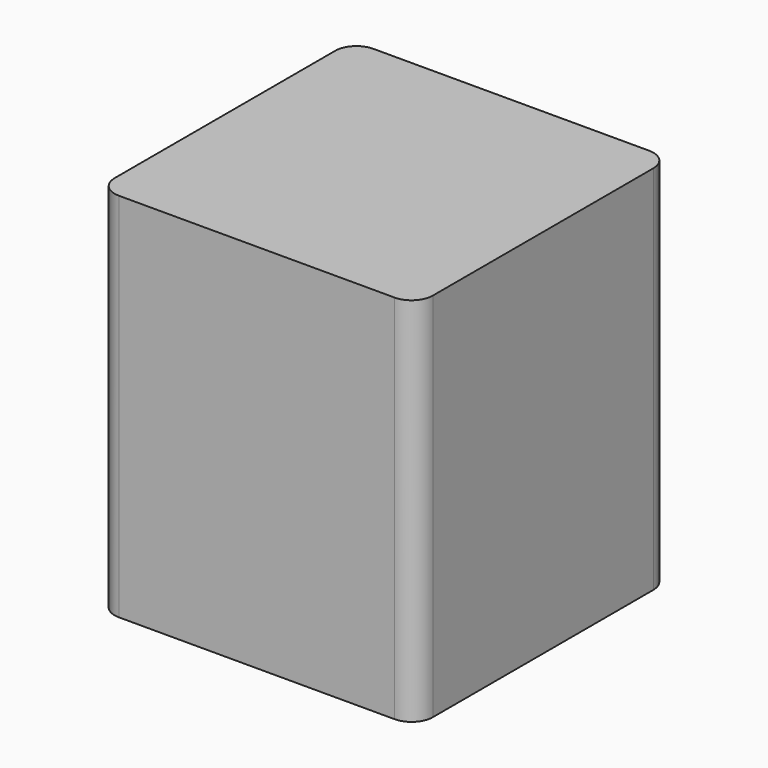
from build123d import *

# Parameters (mm, degrees)
PAD016_DEPTH    = 140
THICKNESS003_T  = -1.5
POCKET018_DEPTH = 5


with BuildPart() as part:
    # Sketch035 → Pad016 (new body)
    with BuildSketch(Plane.XY):
        with BuildLine():
            Line((-60, 52), (-60, -52))
            ThreePointArc((-60, -52), (-57.6568542495, -57.6568542495), (-52, -60))
            Line((-52, -60), (52, -60))
            ThreePointArc((52, -60), (57.6568542495, -57.6568542495), (60, -52))
            Line((60, -52), (60, 52))
            ThreePointArc((60, 52), (57.6568542495, 57.6568542495), (52, 60))
            Line((52, 60), (-52, 60))
            ThreePointArc((-52, 60), (-57.6568542495, 57.6568542495), (-60, 52))
        make_face()
    extrude(amount=PAD016_DEPTH)

    # Thickness003
    thickness003_openings = [part.faces().sort_by_distance(p)[0] for p in [
        (0, 0, 0),
    ]]
    offset(amount=THICKNESS003_T, openings=thickness003_openings)

    # Sketch046 (on Face10 of Thickness003) → Pocket018 (cut)
    with BuildSketch(Plane(origin=(0, 0, 0), x_dir=(1, 0, 0), z_dir=(0, 0, -1))):
        with BuildLine():
            Line((-52, -59), (52, -59))
            ThreePointArc((52, -59), (56.9497474683, -56.9497474683), (59, -52))
            Line((59, -52), (59, 52))
            ThreePointArc((59, 52), (56.9497474683, 56.9497474683), (52, 59))
            Line((52, 59), (-52, 59))
            ThreePointArc((-52, 59), (-56.9497474683, 56.9497474683), (-59, 52))
            Line((-59, 52), (-59, -52))
            ThreePointArc((-59, -52), (-56.9497474683, -56.9497474683), (-52, -59))
        make_face()
    extrude(amount=-POCKET018_DEPTH, mode=Mode.SUBTRACT)


solid = part.part
